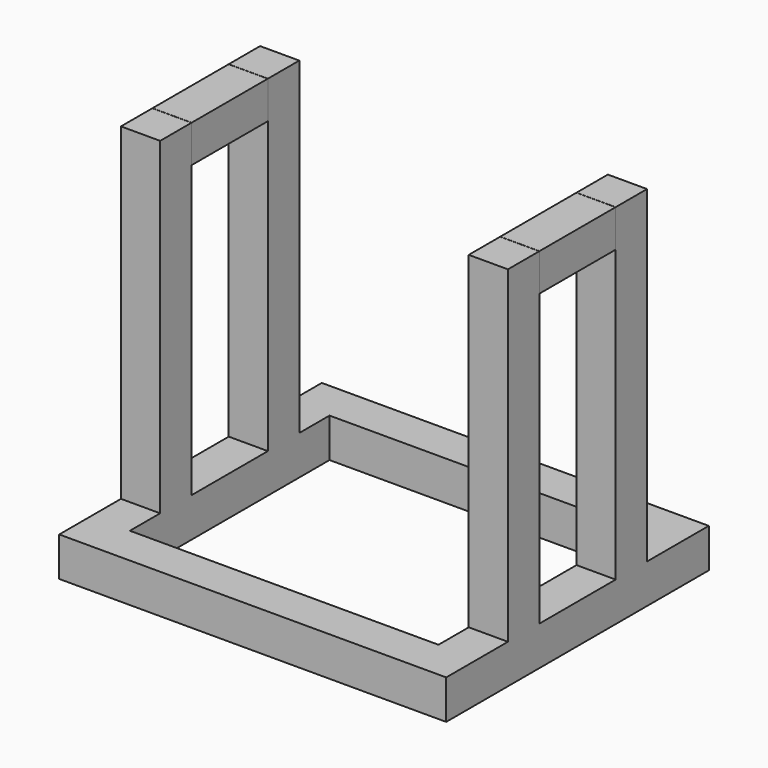
from build123d import *

# Parameters (mm, degrees)
F0_W     = 100.32
F0_H     = 85.08
F2_DEPTH = 95.16
F1_W     = 80
F1_H     = 64.68
F3_DEPTH = 85
F4_W     = 80
F4_H     = 10.2
F4_H_2   = 64.68
F5_DEPTH = 74.84
F6_W     = 20
F6_H     = 85
F7_DEPTH = 100.321


with BuildPart() as f2:
    # F0 (on Top) → F2 (new body)
    with BuildSketch(Plane.XY):
        Rectangle(F0_W, F0_H)
    extrude(amount=F2_DEPTH)

    # F1 (on face) → F3 (cut)
    with BuildSketch(Plane.XY):
        Rectangle(F1_W, F1_H)
    extrude(amount=F3_DEPTH, mode=Mode.SUBTRACT)

    # F4 (on face) → F5 (cut)
    with BuildSketch(Plane.XY.offset(95.16)):
        with Locations((0, -37.44)):
            Rectangle(F4_W, F4_H)
        with Locations((0, 37.44)):
            Rectangle(F4_W, F4_H)
        Rectangle(F4_W, F4_H_2)
    extrude(amount=-F5_DEPTH, mode=Mode.SUBTRACT)

    # F6 (on face) → F7 (cut, through all)
    with BuildSketch(Plane(origin=(-50.16, 0, 0), x_dir=(0, -1, 0), z_dir=(-1, 0, 0))):
        with Locations((-32.54, 52.66)):
            Rectangle(F6_W, F6_H)
        Polygon((-12.38, 95.16), (-12.38, 10.16), (12.38, 10.16), (12.38, 95.16), (12.333148, 95.16), (12.333148, 85.46385), (-12.333161, 85.46385), (-12.333161, 95.16), align=None)
        with Locations((32.54, 52.66)):
            Rectangle(F6_W, F6_H)
    extrude(amount=-F7_DEPTH, mode=Mode.SUBTRACT)


solid = f2.part
